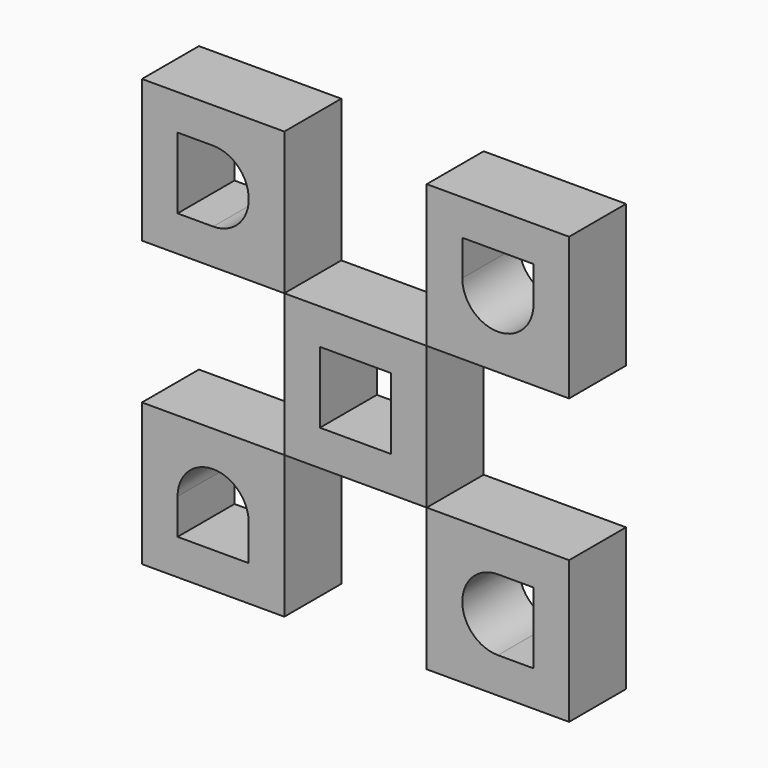
from build123d import *

# Parameters (mm, degrees)
F0_W     = 50.8
F0_H     = 50.8
F0_W_2   = 25.4
F0_H_2   = 25.4
F1_DEPTH = 25.4
F2_DEPTH = 25.4


with BuildPart() as f1:
    # F0 (on Front) → F1 (new body)
    with BuildSketch(Plane.XZ):
        with Locations((63.5, 41.568359)):
            Rectangle(F0_W, F0_H)
        with BuildLine():
            Line((50.8, 54.268359), (76.2, 54.268359))
            Line((76.2, 54.268359), (76.2, 41.568359))
            ThreePointArc((76.2, 41.568359), (63.5, 28.868359), (50.8, 41.568359))
            Line((50.8, 41.568359), (50.8, 54.268359))
        make_face(mode=Mode.SUBTRACT)
        with Locations((63.5, -60.031641)):
            Rectangle(F0_W, F0_H)
        with BuildLine():
            ThreePointArc((63.5, -72.731641), (50.8, -60.031641), (63.5, -47.331641))
            Line((63.5, -47.331641), (76.2, -47.331641))
            Line((76.2, -47.331641), (76.2, -72.731641))
            Line((76.2, -72.731641), (63.5, -72.731641))
        make_face(mode=Mode.SUBTRACT)
        with Locations((-38.1, -60.031641)):
            Rectangle(F0_W, F0_H)
        with BuildLine():
            Line((-25.4, -72.731641), (-50.8, -72.731641))
            Line((-50.8, -72.731641), (-50.8, -60.031641))
            ThreePointArc((-50.8, -60.031641), (-38.1, -47.331641), (-25.4, -60.031641))
            Line((-25.4, -60.031641), (-25.4, -72.731641))
        make_face(mode=Mode.SUBTRACT)
        with Locations((12.7, -9.231641)):
            Rectangle(F0_W, F0_H)
        with Locations((12.7, -9.231641)):
            Rectangle(F0_W_2, F0_H_2, mode=Mode.SUBTRACT)
        with Locations((-38.1, 41.568359)):
            Rectangle(F0_W, F0_H)
        with BuildLine():
            Line((-50.8, 28.868359), (-50.8, 54.268359))
            Line((-50.8, 54.268359), (-38.1, 54.268359))
            ThreePointArc((-38.1, 54.268359), (-25.4, 41.568359), (-38.1, 28.868359))
            Line((-38.1, 28.868359), (-50.8, 28.868359))
        make_face(mode=Mode.SUBTRACT)
    extrude(amount=F1_DEPTH)


with BuildPart() as f2:
    # F0 (on Front) → F2 (new body)
    with BuildSketch(Plane.XZ):
        with Locations((63.5, 41.568359)):
            Rectangle(F0_W, F0_H)
        with BuildLine():
            Line((50.8, 54.268359), (76.2, 54.268359))
            Line((76.2, 54.268359), (76.2, 41.568359))
            ThreePointArc((76.2, 41.568359), (63.5, 28.868359), (50.8, 41.568359))
            Line((50.8, 41.568359), (50.8, 54.268359))
        make_face(mode=Mode.SUBTRACT)
        with Locations((63.5, -60.031641)):
            Rectangle(F0_W, F0_H)
        with BuildLine():
            ThreePointArc((63.5, -72.731641), (50.8, -60.031641), (63.5, -47.331641))
            Line((63.5, -47.331641), (76.2, -47.331641))
            Line((76.2, -47.331641), (76.2, -72.731641))
            Line((76.2, -72.731641), (63.5, -72.731641))
        make_face(mode=Mode.SUBTRACT)
        with Locations((-38.1, -60.031641)):
            Rectangle(F0_W, F0_H)
        with BuildLine():
            Line((-25.4, -72.731641), (-50.8, -72.731641))
            Line((-50.8, -72.731641), (-50.8, -60.031641))
            ThreePointArc((-50.8, -60.031641), (-38.1, -47.331641), (-25.4, -60.031641))
            Line((-25.4, -60.031641), (-25.4, -72.731641))
        make_face(mode=Mode.SUBTRACT)
        with Locations((12.7, -9.231641)):
            Rectangle(F0_W, F0_H)
        with Locations((12.7, -9.231641)):
            Rectangle(F0_W_2, F0_H_2, mode=Mode.SUBTRACT)
        with Locations((-38.1, 41.568359)):
            Rectangle(F0_W, F0_H)
        with BuildLine():
            Line((-50.8, 28.868359), (-50.8, 54.268359))
            Line((-50.8, 54.268359), (-38.1, 54.268359))
            ThreePointArc((-38.1, 54.268359), (-25.4, 41.568359), (-38.1, 28.868359))
            Line((-38.1, 28.868359), (-50.8, 28.868359))
        make_face(mode=Mode.SUBTRACT)
    extrude(amount=F2_DEPTH)


solid = Compound([f1.part, f2.part])
